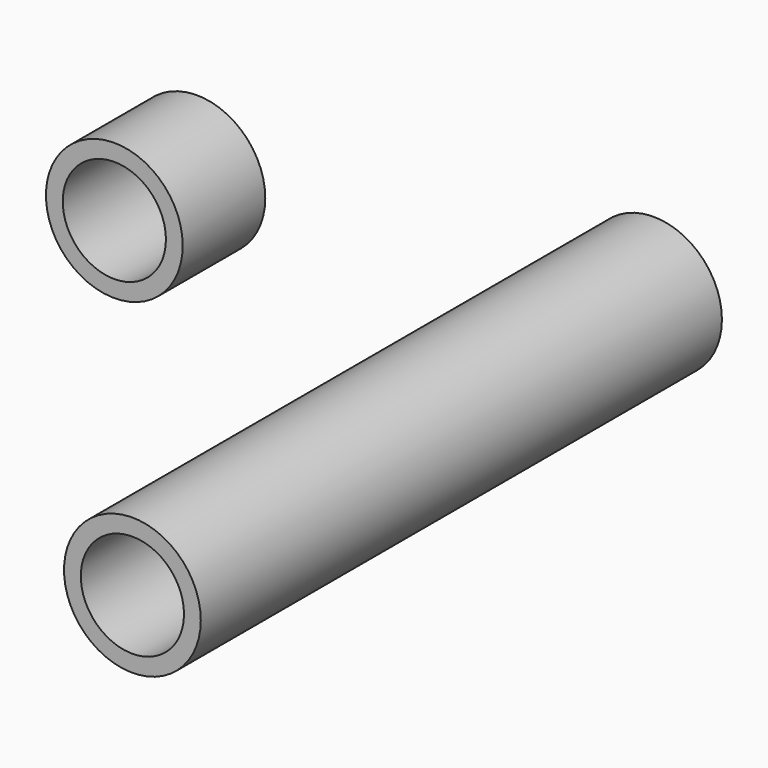
from build123d import *

# Parameters (mm, degrees)
F0_R     = 16.8275
F0_R_2   = 12.7
F1_DEPTH = 80.1624
F2_R     = 16.8275
F2_R_2   = 12.7
F3_DEPTH = 25.4


with BuildPart() as f1:
    # F0 (on Front) → F1 (new body, symmetric)
    with BuildSketch(Plane.XZ):
        Circle(F0_R)
        Circle(F0_R_2, mode=Mode.SUBTRACT)
    extrude(amount=F1_DEPTH, both=True)


with BuildPart() as f3:
    # F2 (on Front) → F3 (new body)
    with BuildSketch(Plane.XZ):
        with Locations((-48.257779, 43.222185)):
            Circle(F2_R)
        with Locations((-48.257779, 43.222185)):
            Circle(F2_R_2, mode=Mode.SUBTRACT)
    extrude(amount=F3_DEPTH)


solid = Compound([f1.part, f3.part])
